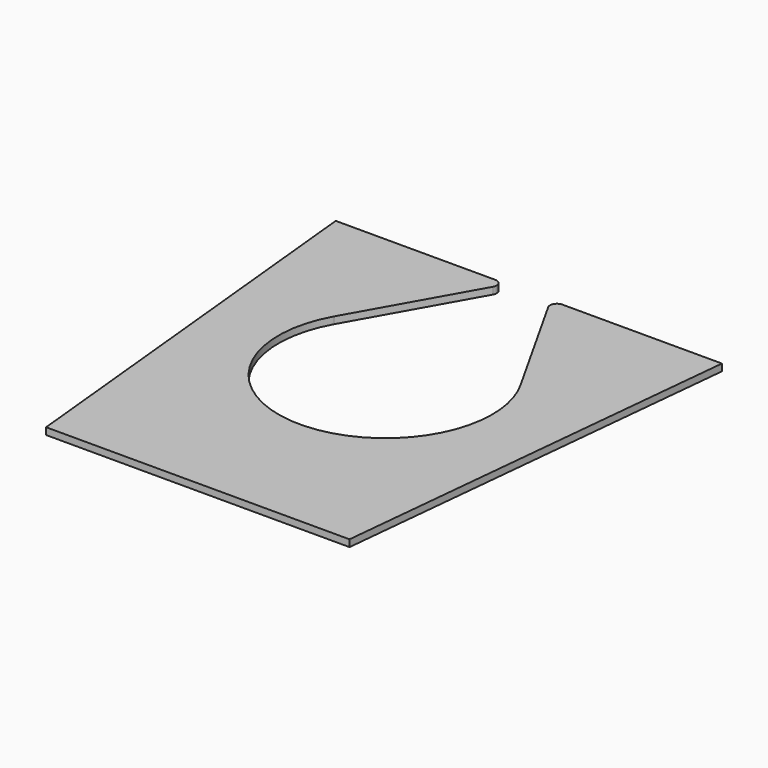
from build123d import *

# Parameters (mm, degrees)
F1_DEPTH = 3.175


with BuildPart() as f1:
    # F0 (on Top) → F1 (new body, symmetric)
    with BuildSketch(Plane.XY):
        with BuildLine():
            Line((-139.7, 0), (0, 0))
            Line((0, 0), (139.7, 0))
            Line((139.7, 0), (177.8, 381))
            Line((177.8, 381), (30.934911, 381))
            ThreePointArc((30.934911, 381), (25.45374, 377.856129), (25.4, 371.537564))
            Line((25.4, 371.537564), (85.791121, 264.142763))
            ThreePointArc((85.791121, 264.142763), (95.214158, 240.834811), (98.425, 215.9))
            ThreePointArc((98.425, 215.9), (-24.934811, 120.685842), (-85.791121, 264.142763))
            Line((-85.791121, 264.142763), (-25.4, 371.537564))
            ThreePointArc((-25.4, 371.537564), (-25.45374, 377.856129), (-30.934911, 381))
            Line((-30.934911, 381), (-177.8, 381))
            Line((-177.8, 381), (-139.7, 0))
        make_face()
    extrude(amount=F1_DEPTH, both=True)


solid = f1.part
